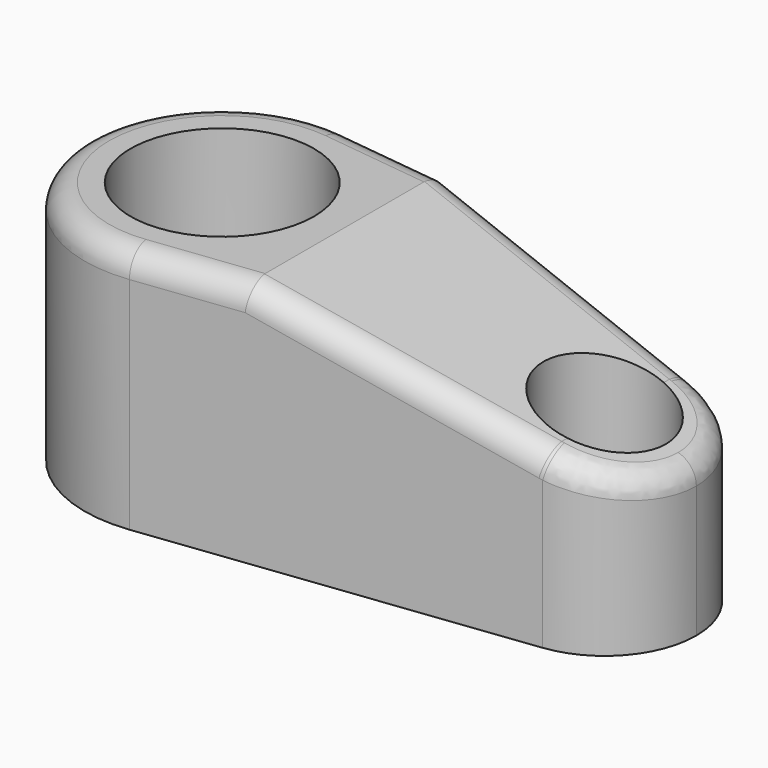
from build123d import *

# Parameters (mm, degrees)
F0_R     = 9.525
F0_R_2   = 6.35
F1_DEPTH = 25.4
F3_DEPTH = 15.24
F4_R     = 2.54


with BuildPart() as f1:
    # F0 (on Top) → F1 (new body)
    with BuildSketch(Plane.XY):
        with BuildLine():
            ThreePointArc((1.7145, -14.184257), (10.691786, -9.477255), (14.2875, 0))
            ThreePointArc((14.2875, 0), (10.691786, 9.477255), (1.7145, 14.184257))
            ThreePointArc((1.7145, 14.184257), (-14.2875, 0), (1.7145, -14.184257))
        make_face()
        Circle(F0_R, mode=Mode.SUBTRACT)
        with BuildLine():
            ThreePointArc((1.7145, 14.184257), (10.691786, 9.477255), (14.2875, 0))
            ThreePointArc((14.2875, 0), (10.691786, -9.477255), (1.7145, -14.184257))
            Line((1.7145, -14.184257), (40.8305, -9.456171))
            ThreePointArc((40.8305, -9.456171), (30.1625, 0), (40.8305, 9.456171))
            Line((40.8305, 9.456171), (1.7145, 14.184257))
        make_face()
        with BuildLine():
            ThreePointArc((49.2125, 0), (46.815357, 6.31817), (40.8305, 9.456171))
            ThreePointArc((40.8305, 9.456171), (30.1625, 0), (40.8305, -9.456171))
            ThreePointArc((40.8305, -9.456171), (46.815357, -6.31817), (49.2125, 0))
        make_face()
        with Locations((39.6875, 0)):
            Circle(F0_R_2, mode=Mode.SUBTRACT)
    extrude(amount=F1_DEPTH)

    # F2 (on Front) → F3 (cut, symmetric)
    with BuildSketch(Plane.XZ):
        Polygon((40.8305, 25.4), (12.7, 25.4), (40.8305, 17.862455), align=None)
        Polygon((49.2125, 25.4), (40.8305, 25.4), (40.8305, 17.862455), (49.2125, 15.616505), align=None)
    extrude(amount=F3_DEPTH, both=True, mode=Mode.SUBTRACT)

    # F4
    f4_edges = [f1.edges().sort_by_distance(p)[0] for p in [
        (26.76525, -11.156287, 21.631228),
        (-14.2875, 0, 25.4),
    ]]
    fillet(f4_edges, radius=F4_R)


solid = f1.part
